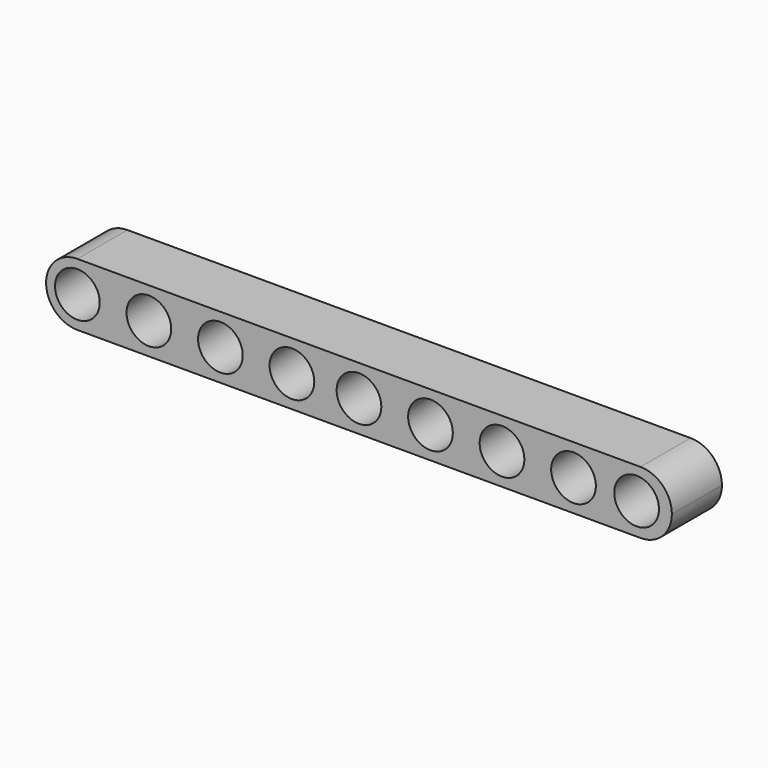
from build123d import *

# Parameters (mm, degrees)
F1_DEPTH = 7
F4_DEPTH = 7.001


with BuildPart() as f1:
    # F0 (on Front) → F1 (new body)
    with BuildSketch(Plane.XZ):
        with BuildLine():
            Line((-31.5, -3.5), (31.5, -3.5))
            ThreePointArc((31.5, -3.5), (33.974874, -2.474874), (35, 0))
            ThreePointArc((35, 0), (33.974874, 2.474874), (31.5, 3.5))
            Line((31.5, 3.5), (-31.5, 3.5))
            ThreePointArc((-31.5, 3.5), (-33.974874, 2.474874), (-35, 0))
            ThreePointArc((-35, 0), (-33.974874, -2.474874), (-31.5, -3.5))
        make_face()
    extrude(amount=F1_DEPTH)

    # F3 (on face) → F4 (cut, through all)
    with BuildSketch(Plane.XZ.offset(7)):
        with BuildLine():
            ThreePointArc((28.556413, 0), (31.056413, -2.5), (33.556413, 0))
            Line((33.556413, 0), (28.556413, 0))
        make_face()
        with BuildLine():
            Line((28.556413, 0), (33.556413, 0))
            ThreePointArc((33.556413, 0), (31.056413, 2.5), (28.556413, 0))
        make_face()
        with BuildLine():
            ThreePointArc((-34, 0), (-31.5, -2.5), (-29, 0))
            Line((-29, 0), (-34, 0))
        make_face()
        with BuildLine():
            Line((-34, 0), (-29, 0))
            ThreePointArc((-29, 0), (-31.5, 2.5), (-34, 0))
        make_face()
        with BuildLine():
            ThreePointArc((-26, 0), (-23.5, -2.5), (-21, 0))
            Line((-21, 0), (-26, 0))
        make_face()
        with BuildLine():
            Line((-26, 0), (-21, 0))
            ThreePointArc((-21, 0), (-23.5, 2.5), (-26, 0))
        make_face()
        with BuildLine():
            ThreePointArc((-18, 0), (-15.5, -2.5), (-13, 0))
            Line((-13, 0), (-18, 0))
        make_face()
        with BuildLine():
            Line((-18, 0), (-13, 0))
            ThreePointArc((-13, 0), (-15.5, 2.5), (-18, 0))
        make_face()
        with BuildLine():
            ThreePointArc((-10, 0), (-7.5, -2.5), (-5, 0))
            Line((-5, 0), (-10, 0))
        make_face()
        with BuildLine():
            Line((-10, 0), (-5, 0))
            ThreePointArc((-5, 0), (-7.5, 2.5), (-10, 0))
        make_face()
        with BuildLine():
            ThreePointArc((-2.5, 0), (0, -2.5), (2.5, 0))
            Line((2.5, 0), (-2.5, 0))
        make_face()
        with BuildLine():
            Line((-2.5, 0), (2.5, 0))
            ThreePointArc((2.5, 0), (0, 2.5), (-2.5, 0))
        make_face()
        with BuildLine():
            ThreePointArc((5.5, 0), (8, -2.5), (10.5, 0))
            Line((10.5, 0), (5.5, 0))
        make_face()
        with BuildLine():
            Line((5.5, 0), (10.5, 0))
            ThreePointArc((10.5, 0), (8, 2.5), (5.5, 0))
        make_face()
        with BuildLine():
            ThreePointArc((13.5, 0), (16, -2.5), (18.5, 0))
            Line((18.5, 0), (13.5, 0))
        make_face()
        with BuildLine():
            Line((13.5, 0), (18.5, 0))
            ThreePointArc((18.5, 0), (16, 2.5), (13.5, 0))
        make_face()
        with BuildLine():
            ThreePointArc((21.5, 0), (24, -2.5), (26.5, 0))
            Line((26.5, 0), (21.5, 0))
        make_face()
        with BuildLine():
            Line((21.5, 0), (26.5, 0))
            ThreePointArc((26.5, 0), (24, 2.5), (21.5, 0))
        make_face()
    extrude(amount=-F4_DEPTH, mode=Mode.SUBTRACT)


solid = f1.part
